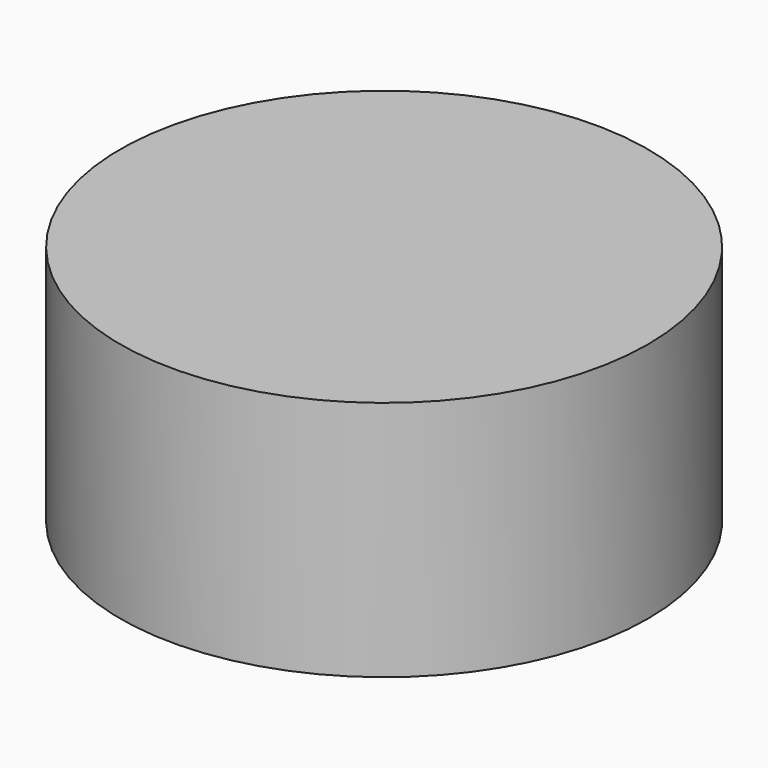
from build123d import *

# Parameters (mm, degrees)
CYLINDER_R     = 16.3957
CYLINDER_DEPTH = 15


with BuildPart() as part:
    # Cylinder → Cylinder (new body)
    with BuildSketch(Plane.XY.offset(-2.5)):
        Circle(CYLINDER_R)
    extrude(amount=CYLINDER_DEPTH)


solid = part.part
